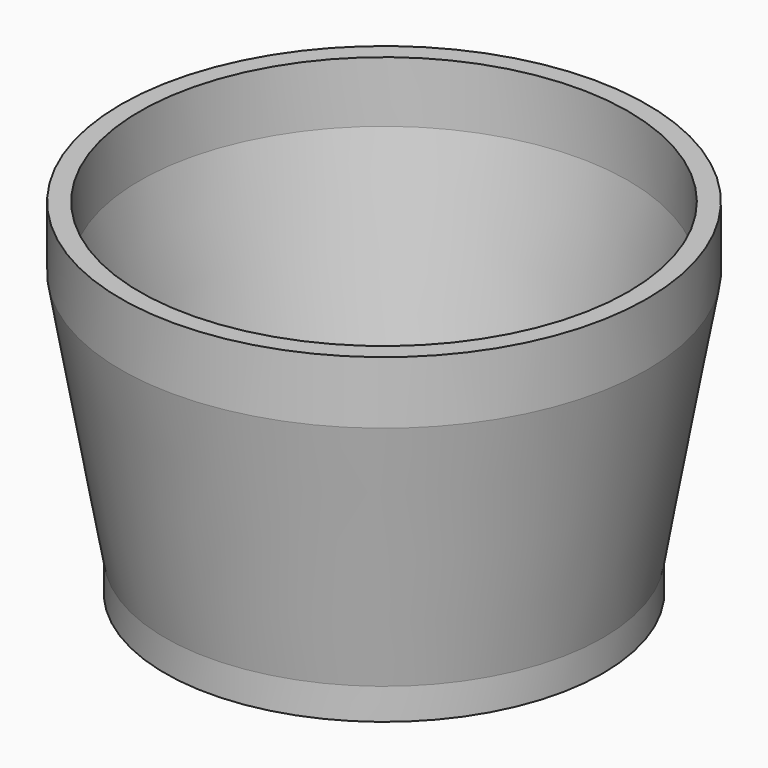
from build123d import *

# Parameters (mm, degrees)
F0_R      = 35
F1_DEPTH  = 5
F1_FACE_R = 35
F2_DEPTH  = 40
F2_TAPER  = -10
F3_DEPTH  = 10
F4_T      = -3


with BuildPart() as f1:
    # F0 (on Top) → F1 (new body)
    with BuildSketch(Plane.XY):
        Circle(F0_R)
    extrude(amount=-F1_DEPTH)

    # F1_face (on face) → F2 (join)
    with BuildSketch(Plane.XY):
        Circle(F1_FACE_R)
    extrude(amount=F2_DEPTH, taper=F2_TAPER)

    # F3 (add): a face of the model
    f3_faces = [f1.faces().sort_by_distance(p)[0] for p in [
        (0, 0, 40),
    ]]
    extrude(f3_faces, amount=F3_DEPTH)

    # F4
    f4_openings = [f1.faces().sort_by_distance(p)[0] for p in [
        (0, 0, 50),
    ]]
    offset(amount=F4_T, openings=f4_openings, kind=Kind.INTERSECTION)


solid = f1.part
